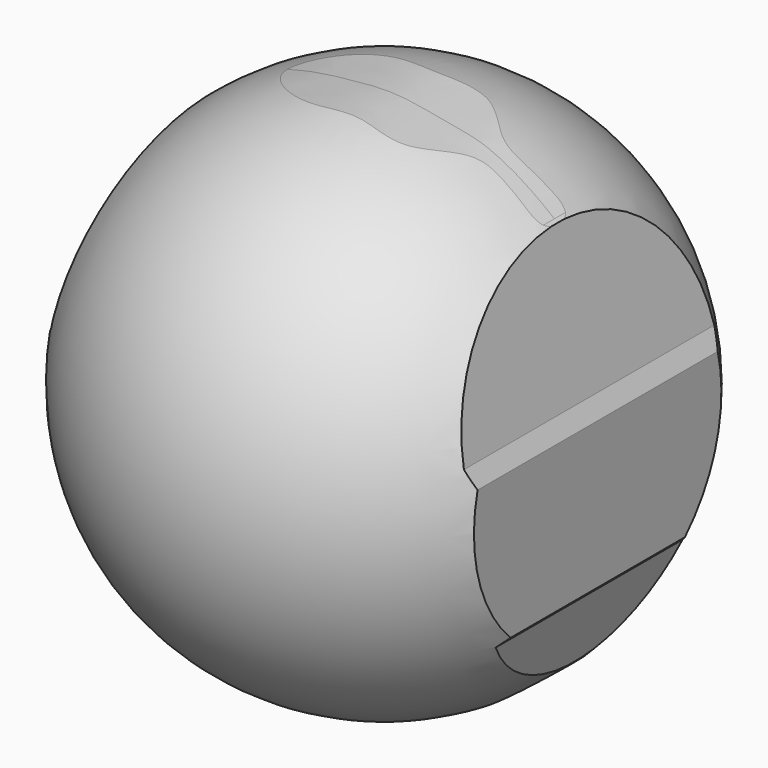
from build123d import *

# Parameters (mm, degrees)
F3_DEPTH = 88.138


with BuildPart() as f1:
    # F0 (on Right) → F1 (revolve)
    with BuildSketch(Plane.YZ):
        with BuildLine():
            Line((0, 70.8416298213), (0, -70.8416298213))
            ThreePointArc((0, -70.8416298213), (70.8416298213, 0), (0, 70.8416298213))
        make_face()
    revolve(axis=Axis((0, 0, 0), (0, 0, -1)))

    # F2 (on Front) → F3 (intersect, symmetric)
    with BuildSketch(Plane.XZ):
        with BuildLine():
            add(Edge.make_bspline(
                [(-46.6592088342, 53.2616898417), (-45.4183797693, 54.5278978273), (-42.6869236647, 57.3152209406), (-36.2931747251, 62.1716157185), (-26.9719798216, 65.8489474918), (-18.3180072339, 67.9057468895), (-6.7062624568, 69.3009329626), (4.4643194234, 70.0168470256), (16.9701926515, 67.2645644417), (27.1342814823, 65.9736427336), (38.7911737808, 59.4801067729), (43.6075364693, 55.6569433468), (45.7895621657, 53.9248809218)],
                knots=[0, 0, 0, 0, 0.0747817838, 0.1646182908, 0.2647754033, 0.36017978, 0.4679768944, 0.5753520805, 0.6877157242, 0.7905193986, 0.9050960061, 1, 1, 1, 1], degree=3))
            Line((-46.6592088342, 53.2616898417), (-55.1035441458, 14.7579303011))
            Line((-55.1035441458, 14.7579303011), (-55.1035441458, 12.6094166189))
            Line((-55.1035441458, 12.6094166189), (-57.4055202305, 10.0005073473))
            Line((-57.4055202305, 10.0005073473), (-57.4055202305, -29.4290501624))
            Line((-57.4055202305, -29.4290501624), (-55.1035441458, -31.6015295684))
            Line((-55.1035441458, -31.6015295684), (-51.1359348893, -49.1747111082))
            add(Edge.make_bspline(
                [(-51.1359348893, -49.1747111082), (-47.9992454957, -52.1301607476), (-40.7561015524, -58.9547915828), (-19.1287563078, -69.9086773355), (4.1850416995, -72.4466384159), (27.1525670282, -67.080206471), (42.7802476894, -55.4128974746), (51.1359348893, -49.1747111082)],
                knots=[0, 0, 0, 0, 0.15742802, 0.3635278048, 0.5674104782, 0.7687063865, 1, 1, 1, 1], degree=3))
            Line((51.1359348893, -49.1747111082), (55.1035441458, -31.6015295684))
            Line((55.1035441458, -31.6015295684), (57.4055202305, -29.4290501624))
            Line((57.4055202305, -29.4290501624), (57.4055202305, 10.0005073473))
            Line((57.4055202305, 10.0005073473), (55.1035441458, 14.7579303011))
            Line((55.1035441458, 14.7579303011), (46.6592088342, 53.2616898417))
            Line((46.6592088342, 53.2616898417), (45.7895621657, 53.9248809218))
        make_face()
    extrude(amount=F3_DEPTH, both=True, mode=Mode.INTERSECT)


solid = f1.part
